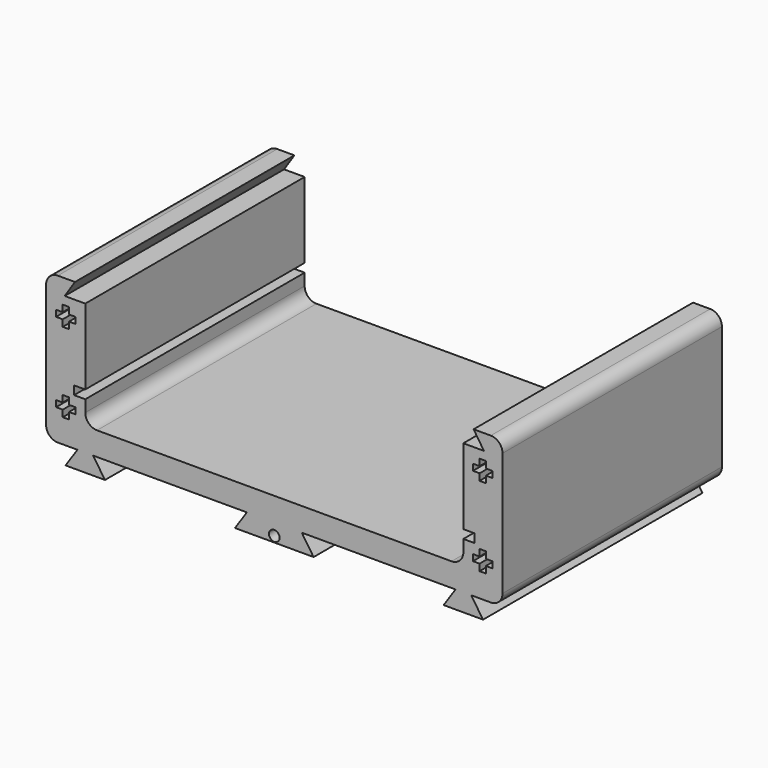
from build123d import *

# Parameters (mm, degrees)
F1_DEPTH = 70
F3_D     = 2.7
F3_DEPTH = 12
F3_TIP   = 0.8111618357


with BuildPart() as f1:
    # F0 (on Front) → F1 (new body)
    with BuildSketch(Plane.XZ):
        with BuildLine():
            Line((-10.0352883258, -17.0069661875), (0, -17.0069661875))
            Line((0, -17.0069661875), (10.0352883258, -17.0069661875))
            Line((10.0352883258, -17.0069661875), (7, -12.5069661875))
            Line((7, -12.5069661875), (46.25, -12.5069661875))
            Line((46.25, -12.5069661875), (43.2147116742, -17.0069661875))
            Line((43.2147116742, -17.0069661875), (53.2852883258, -17.0069661875))
            Line((53.2852883258, -17.0069661875), (50.25, -12.5069661875))
            Line((50.25, -12.5069661875), (55.25, -12.5069661875))
            ThreePointArc((55.25, -12.5069661875), (57.3713203436, -11.6282865311), (58.25, -9.5069661875))
            Line((58.25, -9.5069661875), (58.25, 21.9930338125))
            ThreePointArc((58.25, 21.9930338125), (57.3713203436, 24.114354156), (55.25, 24.9930338125))
            Line((55.25, 24.9930338125), (50.8726710718, 24.9930338125))
            Line((50.8726710718, 24.9930338125), (53.5, 20.9930338125))
            Line((53.5, 20.9930338125), (48.25, 20.9930338125))
            Line((48.25, 20.9930338125), (48.25, 1.6930338125))
            Line((48.25, 1.6930338125), (51.1, 1.6930338125))
            Line((51.1, 1.6930338125), (51.1, -0.5069661875))
            Line((51.1, -0.5069661875), (48.25, -0.5069661875))
            Line((48.25, -0.5069661875), (48.25, -3.5069661875))
            ThreePointArc((48.25, -3.5069661875), (47.3713203436, -5.6282865311), (45.25, -6.5069661875))
            Line((45.25, -6.5069661875), (0, -6.5069661875))
            Line((0, -6.5069661875), (-45.25, -6.5069661875))
            ThreePointArc((-45.25, -6.5069661875), (-47.3713203436, -5.6282865311), (-48.25, -3.5069661875))
            Line((-48.25, -3.5069661875), (-48.25, -0.5069661875))
            Line((-48.25, -0.5069661875), (-51.1, -0.5069661875))
            Line((-51.1, -0.5069661875), (-51.1, 1.6930338125))
            Line((-51.1, 1.6930338125), (-48.25, 1.6930338125))
            Line((-48.25, 1.6930338125), (-48.25, 20.9930338125))
            Line((-48.25, 20.9930338125), (-53.5, 20.9930338125))
            Line((-53.5, 20.9930338125), (-50.8726710718, 24.9930338125))
            Line((-50.8726710718, 24.9930338125), (-55.25, 24.9930338125))
            ThreePointArc((-55.25, 24.9930338125), (-57.3713203436, 24.114354156), (-58.25, 21.9930338125))
            Line((-58.25, 21.9930338125), (-58.25, -9.5069661875))
            ThreePointArc((-58.25, -9.5069661875), (-57.3713203436, -11.6282865311), (-55.25, -12.5069661875))
            Line((-55.25, -12.5069661875), (-50.25, -12.5069661875))
            Line((-50.25, -12.5069661875), (-53.2852883258, -17.0069661875))
            Line((-53.2852883258, -17.0069661875), (-43.2147116742, -17.0069661875))
            Line((-43.2147116742, -17.0069661875), (-46.25, -12.5069661875))
            Line((-46.25, -12.5069661875), (-7, -12.5069661875))
            Line((-7, -12.5069661875), (-10.0352883258, -17.0069661875))
        make_face()
        Polygon((-54, -3.1069661875), (-54, -1.4069661875), (-52.4, -1.4069661875), (-52.4, -3.1069661875), (-50.7, -3.1069661875), (-50.7, -4.7069661875), (-52.4, -4.7069661875), (-52.4, -6.4069661875), (-54, -6.4069661875), (-54, -4.7069661875), (-55.7, -4.7069661875), (-55.7, -3.1069661875), align=None, mode=Mode.SUBTRACT)
        Polygon((52.4, -1.4069661875), (54, -1.4069661875), (54, -3.1069661875), (55.7, -3.1069661875), (55.7, -4.7069661875), (54, -4.7069661875), (54, -6.4069661875), (52.4, -6.4069661875), (52.4, -4.7069661875), (50.7, -4.7069661875), (50.7, -3.1069661875), (52.4, -3.1069661875), align=None, mode=Mode.SUBTRACT)
        Polygon((-55.7, 15.5930338125), (-55.7, 17.1930338125), (-54, 17.1930338125), (-54, 18.8930338125), (-52.4, 18.8930338125), (-52.4, 17.1930338125), (-50.7, 17.1930338125), (-50.7, 15.5930338125), (-52.4, 15.5930338125), (-52.4, 13.8930338125), (-54, 13.8930338125), (-54, 15.5930338125), align=None, mode=Mode.SUBTRACT)
        Polygon((54, 18.8930338125), (54, 17.1930338125), (55.7, 17.1930338125), (55.7, 15.5930338125), (54, 15.5930338125), (54, 13.8930338125), (52.4, 13.8930338125), (52.4, 15.5930338125), (50.7, 15.5930338125), (50.7, 17.1930338125), (52.4, 17.1930338125), (52.4, 18.8930338125), align=None, mode=Mode.SUBTRACT)
    extrude(amount=-F1_DEPTH)

    # F3
    with Locations(Plane.XZ):
        with Locations((0, -15.5069661875)):
            Hole(F3_D / 2, depth=F3_DEPTH)
            with Locations((0, 0, -(F3_DEPTH + F3_TIP / 2))):  # 118° drill point
                Cone(0, F3_D / 2, F3_TIP, mode=Mode.SUBTRACT)


solid = f1.part
